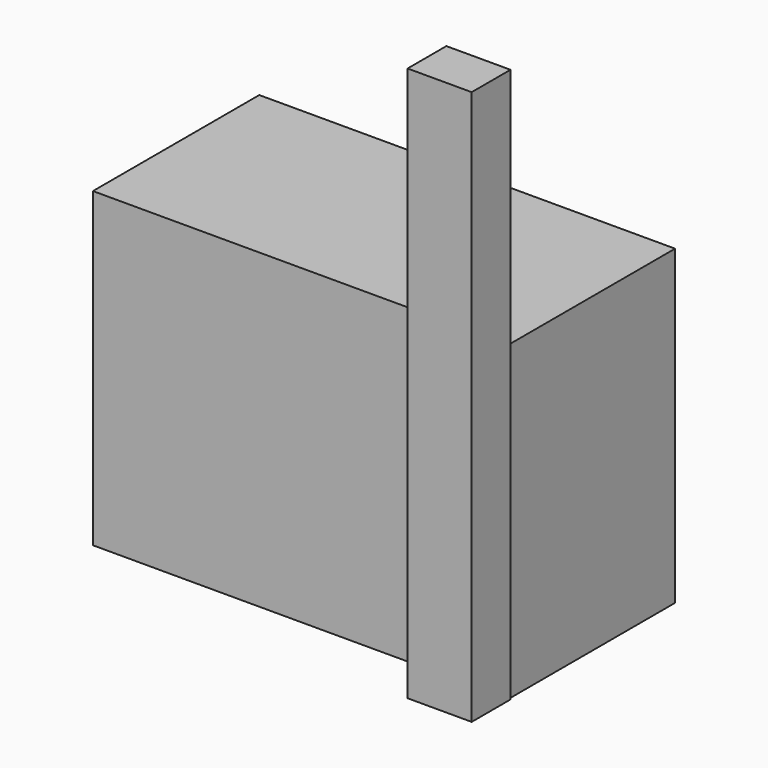
from build123d import *

# Parameters (mm, degrees)
F0_W     = 1200
F0_H     = 600
F1_DEPTH = 900
F2_W     = 185
F2_H     = 140
F3_DEPTH = 1600


with BuildPart() as f1:
    # F0 (on Top) → F1 (new body)
    with BuildSketch(Plane.XY):
        with Locations((600, 300)):
            Rectangle(F0_W, F0_H)
    extrude(amount=F1_DEPTH)

    # F2 (on Top) → F3 (join)
    with BuildSketch(Plane.XY):
        with Locations((1112.5, -70)):
            Rectangle(F2_W, F2_H)
    extrude(amount=F3_DEPTH)


solid = f1.part
